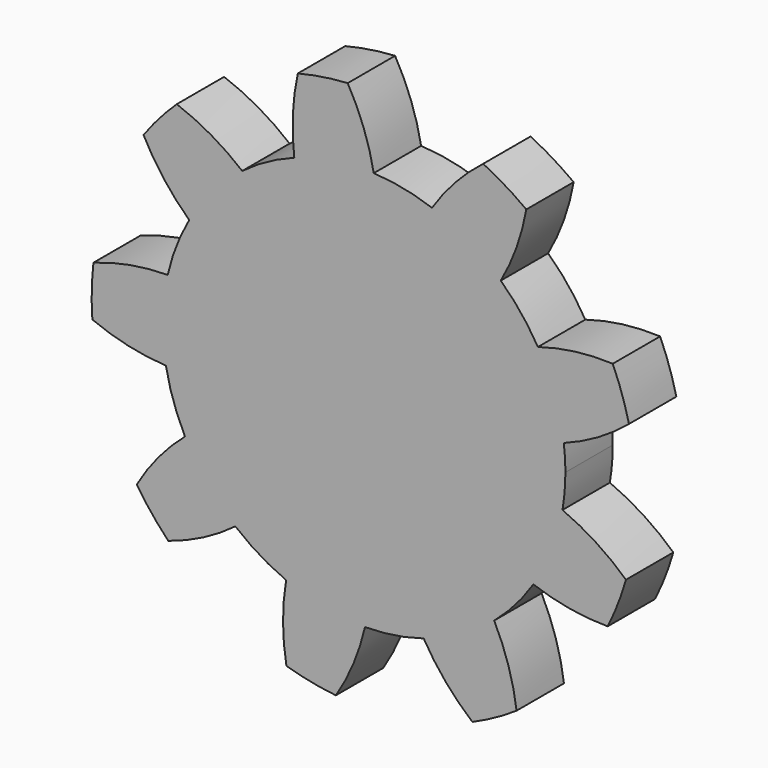
from build123d import *

# Parameters (mm, degrees)
F1_DEPTH = 3.175


with BuildPart() as f1:
    # F0 (on Front) → F1 (new body)
    with BuildSketch(Plane.XZ):
        with BuildLine():
            ThreePointArc((10.639723, -1.824366), (10.756111, -0.915481), (10.795, 0))
            ThreePointArc((10.795, 0), (10.773522, 0.68062), (10.709174, 1.358532))
            ThreePointArc((10.709174, 1.358532), (10.222111, 3.469939), (9.323181, 5.441537))
            ThreePointArc((9.323181, 5.441537), (8.418853, 6.756844), (7.330456, 7.92442))
            ThreePointArc((7.330456, 7.92442), (5.600157, 9.228774), (3.644219, 10.161284))
            ThreePointArc((3.644219, 10.161284), (2.106, 10.587577), (0.521736, 10.782385))
            ThreePointArc((0.521736, 10.782385), (-1.642172, 10.669363), (-3.739914, 10.126454))
            ThreePointArc((-3.739914, 10.126454), (-5.192274, 9.464265), (-6.53111, 8.595151))
            ThreePointArc((-6.53111, 8.595151), (-8.116111, 7.117638), (-9.374099, 5.353343))
            ThreePointArc((-9.374099, 5.353343), (-10.061025, 3.912519), (-10.527977, 2.386151))
            ThreePointArc((-10.527977, 2.386151), (-10.792431, 0.235492), (-10.62204, -1.924656))
            ThreePointArc((-10.62204, -1.924656), (-10.222111, -3.469939), (-9.598687, -4.939356))
            ThreePointArc((-9.598687, -4.939356), (-8.418853, -6.756844), (-6.899809, -8.302088))
            ThreePointArc((-6.899809, -8.302088), (-5.600157, -9.228774), (-4.178064, -9.953683))
            ThreePointArc((-4.178064, -9.953683), (-2.106, -10.587577), (0.050919, -10.79488))
            ThreePointArc((0.050919, -10.79488), (1.642172, -10.669363), (3.197521, -10.310571))
            ThreePointArc((3.197521, -10.310571), (5.192274, -9.464265), (6.977821, -8.236628))
            ThreePointArc((6.977821, -8.236628), (8.116111, -7.117638), (9.076951, -5.843029))
            ThreePointArc((9.076951, -5.843029), (10.061025, -3.912519), (10.639723, -1.824366))
        make_face()
        with BuildLine():
            ThreePointArc((-10.62204, -1.924656), (-10.792431, 0.235492), (-10.527977, 2.386151))
            ThreePointArc((-10.527977, 2.386151), (-12.549243, 2.197815), (-14.50928, 1.669381))
            ThreePointArc((-14.50928, 1.669381), (-14.601524, 0.318606), (-14.568287, -1.034906))
            ThreePointArc((-14.568287, -1.034906), (-12.633166, -1.648333), (-10.62204, -1.924656))
        make_face()
        with BuildLine():
            ThreePointArc((-9.374099, 5.353343), (-8.116111, 7.117638), (-6.53111, 8.595151))
            ThreePointArc((-6.53111, 8.595151), (-8.20055, 9.750122), (-10.041696, 10.605205))
            ThreePointArc((-10.041696, 10.605205), (-10.98062, 9.629746), (-11.82518, 8.571531))
            ThreePointArc((-11.82518, 8.571531), (-10.737095, 6.857746), (-9.374099, 5.353343))
        make_face()
        with BuildLine():
            ThreePointArc((-3.739914, 10.126454), (-1.642172, 10.669363), (0.521736, 10.782385))
            ThreePointArc((0.521736, 10.782385), (-0.014728, 12.740239), (-0.875491, 14.578736))
            ThreePointArc((-0.875491, 14.578736), (-2.221762, 14.43502), (-3.54894, 14.167253))
            ThreePointArc((-3.54894, 14.167253), (-3.817018, 12.15501), (-3.739914, 10.126454))
        make_face()
        with BuildLine():
            ThreePointArc((3.644219, 10.161284), (5.600157, 9.228774), (7.330456, 7.92442))
            ThreePointArc((7.330456, 7.92442), (8.177986, 9.769056), (8.700366, 11.730714))
            ThreePointArc((8.700366, 11.730714), (7.576683, 12.485988), (6.387889, 13.13396))
            ThreePointArc((6.387889, 13.13396), (4.889085, 11.76481), (3.644219, 10.161284))
        make_face()
        with BuildLine():
            ThreePointArc((9.323181, 5.441537), (10.222111, 3.469939), (10.709174, 1.358532))
            ThreePointArc((10.709174, 1.358532), (12.544128, 2.226823), (14.205225, 3.393761))
            ThreePointArc((14.205225, 3.393761), (13.829915, 4.694623), (13.335753, 5.955141))
            ThreePointArc((13.335753, 5.955141), (11.30753, 5.869724), (9.323181, 5.441537))
        make_face()
        with BuildLine():
            ThreePointArc((14.043671, -4.010154), (12.435056, -2.771871), (10.639723, -1.824366))
            ThreePointArc((10.639723, -1.824366), (10.061025, -3.912519), (9.076951, -5.843029))
            ThreePointArc((9.076951, -5.843029), (11.040734, -6.357365), (13.063301, -6.531171))
            ThreePointArc((13.063301, -6.531171), (13.611975, -5.293408), (14.043671, -4.010154))
        make_face()
        with BuildLine():
            ThreePointArc((8.180398, -12.099054), (7.744082, -10.116476), (6.977821, -8.236628))
            ThreePointArc((6.977821, -8.236628), (5.192274, -9.464265), (3.197521, -10.310571))
            ThreePointArc((3.197521, -10.310571), (4.371258, -11.966871), (5.808914, -13.400095))
            ThreePointArc((5.808914, -13.400095), (7.024841, -12.804594), (8.180398, -12.099054))
        make_face()
        with BuildLine():
            ThreePointArc((-1.510573, -14.526672), (-0.570435, -12.72747), (0.050919, -10.79488))
            ThreePointArc((0.050919, -10.79488), (-2.106, -10.587577), (-4.178064, -9.953683))
            ThreePointArc((-4.178064, -9.953683), (-4.343579, -11.976945), (-4.163529, -13.998966))
            ThreePointArc((-4.163529, -13.998966), (-2.849294, -14.324369), (-1.510573, -14.526672))
        make_face()
        with BuildLine():
            ThreePointArc((-10.494731, -10.157098), (-8.618039, -9.383139), (-6.899809, -8.302088))
            ThreePointArc((-6.899809, -8.302088), (-8.418853, -6.756844), (-9.598687, -4.939356))
            ThreePointArc((-9.598687, -4.939356), (-11.026006, -6.382874), (-12.18781, -8.047565))
            ThreePointArc((-12.18781, -8.047565), (-11.390213, -9.141612), (-10.494731, -10.157098))
        make_face()
    extrude(amount=F1_DEPTH)


solid = f1.part
